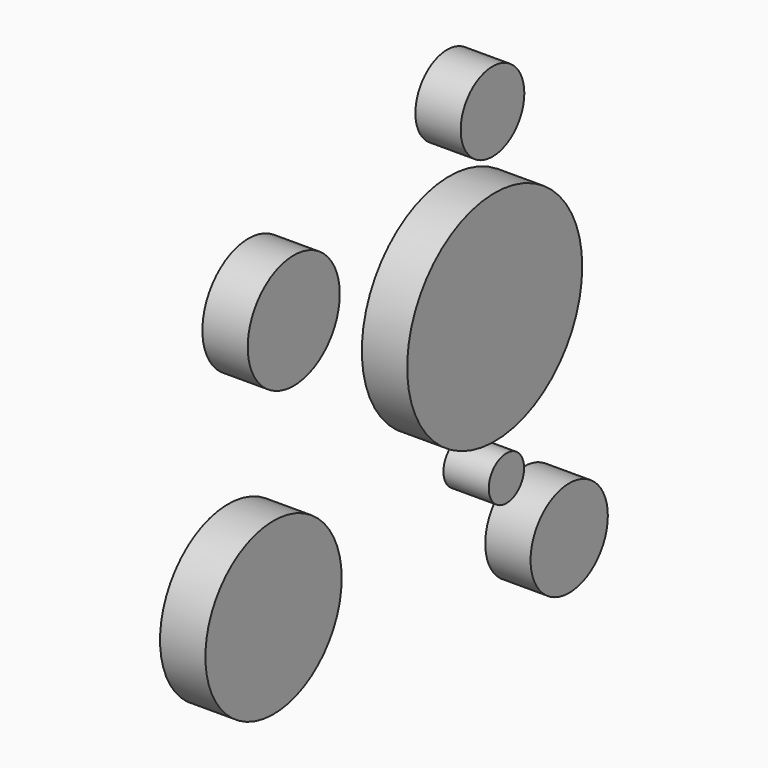
from build123d import *

# Parameters (mm, degrees)
F0_R     = 13.524928
F0_R_2   = 6.181413
F0_R_3   = 30.645337
F0_R_4   = 16.109866
F0_R_5   = 23.862723
F0_R_6   = 11.136821
F1_DEPTH = 12.7


with BuildPart() as f1:
    # F0 (on Right) → F1 (new body)
    with BuildSketch(Plane.YZ):
        with Locations((61.432764, -65.096356)):
            Circle(F0_R)
        with Locations((39.449897, -41.403275)):
            Circle(F0_R_2)
        with Locations((35.345802, 0)):
            Circle(F0_R_3)
        with Locations((-35.026088, 27.752876)):
            Circle(F0_R_4)
        with Locations((-42.098068, -42.592874)):
            Circle(F0_R_5)
        with Locations((34.580894, 51.007353)):
            Circle(F0_R_6)
    extrude(amount=F1_DEPTH)


solid = f1.part
